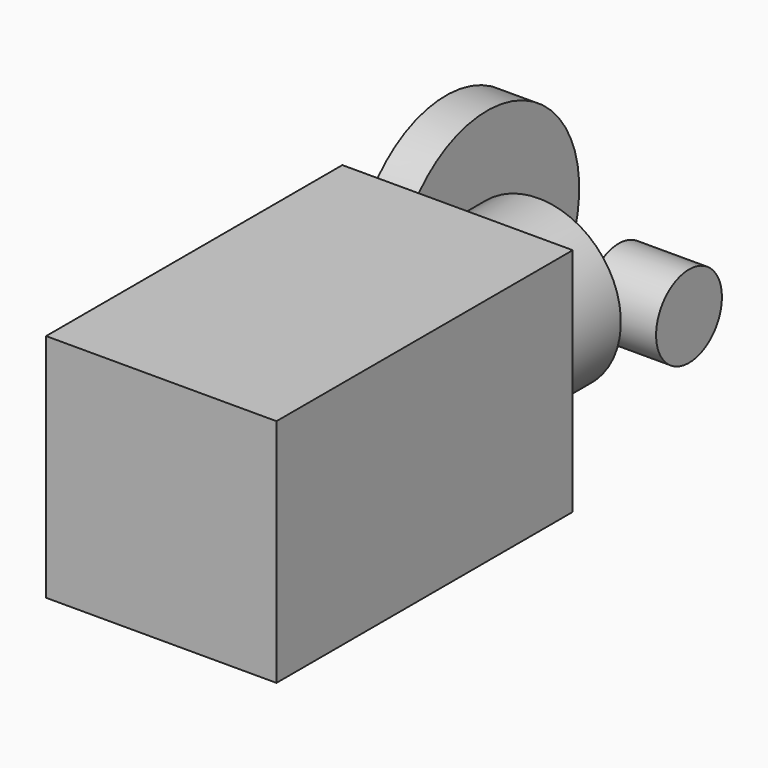
from build123d import *

# Parameters (mm, degrees)
F0_W      = 28
F0_H      = 28
F1_DEPTH  = 45
F2_R      = 11
F3_DEPTH  = 2
F5_D      = 2.6
F5_DEPTH  = 10
F5_TIP    = 0.7811188047
F6_R      = 2.5
F7_DEPTH  = 7.41
F9_R      = 10
F9_R_2    = 2.5
F10_DEPTH = 7.31
F12_R     = 5
F13_DEPTH = 8.54
F14_R     = 2
F15_DEPTH = 16
F16_R     = 14
F16_R_2   = 2
F17_DEPTH = 5


with BuildPart() as f1:
    # F0 (on Front) → F1 (new body)
    with BuildSketch(Plane.XZ):
        Rectangle(F0_W, F0_H)
    extrude(amount=F1_DEPTH)

    # F2 (on face) → F3 (join)
    with BuildSketch(Plane(origin=(0, 0, 0), x_dir=(-1, 0, 0), z_dir=(0, 1, 0))):
        Circle(F2_R)
    extrude(amount=F3_DEPTH)

    # F5
    with Locations(Plane(origin=(0, 0, 0), x_dir=(-1, 0, 0), z_dir=(0, 1, 0))):
        with Locations((-11.5, 11.5), (11.5, 11.5), (11.5, -11.5), (-11.5, -11.5)):
            Hole(F5_D / 2, depth=F5_DEPTH)
            with Locations((0, 0, -(F5_DEPTH + F5_TIP / 2))):  # 118° drill point
                Cone(0, F5_D / 2, F5_TIP, mode=Mode.SUBTRACT)

    # F6 (on face) → F7 (join)
    with BuildSketch(Plane(origin=(0, 2, 0), x_dir=(-1, 0, 0), z_dir=(0, 1, 0))):
        Circle(F6_R)
    extrude(amount=F7_DEPTH)


with BuildPart() as f10:
    # F9 (on offset) → F10 (new body)
    with BuildSketch(Plane(origin=(0, 5, 0), x_dir=(-1, 0, 0), z_dir=(0, 1, 0))):
        Circle(F9_R)
        Circle(F9_R_2, mode=Mode.SUBTRACT)
    extrude(amount=F10_DEPTH)


with BuildPart() as f13:
    # F12 (on offset) → F13 (new body)
    with BuildSketch(Plane.YZ.offset(5.74)):
        with Locations((17.31, 0)):
            Circle(F12_R)
    extrude(amount=F13_DEPTH)

    # F14 (on face) → F15 (join)
    with BuildSketch(Plane(origin=(5.74, 0, 0), x_dir=(0, -1, 0), z_dir=(-1, 0, 0))):
        with Locations((-17.31, 0)):
            Circle(F14_R)
    extrude(amount=F15_DEPTH)


with BuildPart() as f17:
    # F16 (on face) → F17 (new body)
    with BuildSketch(Plane(origin=(-10.26, 0, 0), x_dir=(0, -1, 0), z_dir=(-1, 0, 0))):
        with Locations((-17.31, 0)):
            Circle(F16_R)
        with Locations((-17.31, 0)):
            Circle(F16_R_2, mode=Mode.SUBTRACT)
        with Locations((-17.31, 0)):
            Circle(F16_R_2)
    extrude(amount=F17_DEPTH)


solid = Compound([f1.part, f10.part, f13.part, f17.part])
